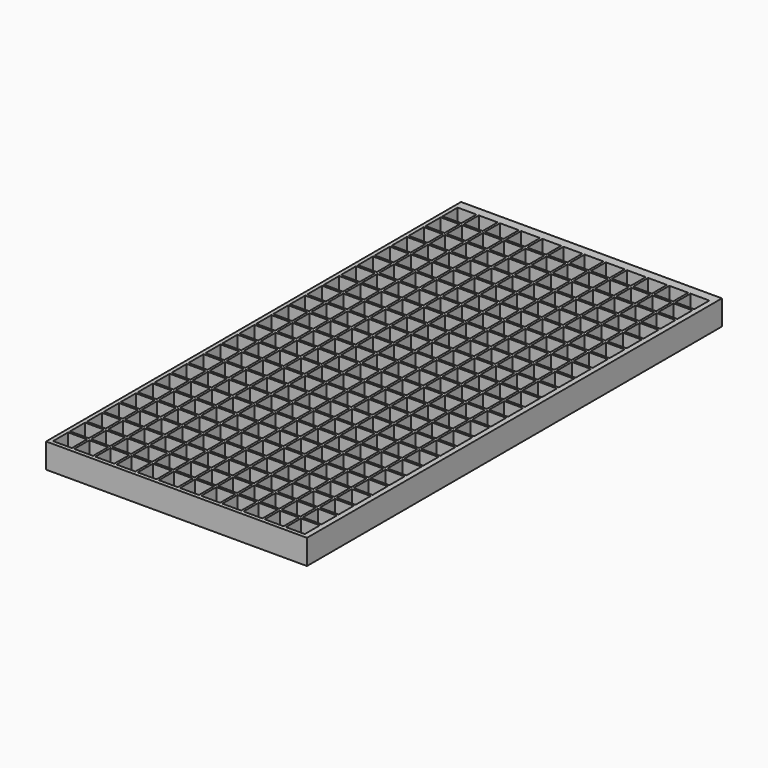
from build123d import *

# Parameters (mm, degrees)
F0_W     = 266.7
F0_H     = 530.225
F0_W_2   = 19.2532
F0_H_2   = 19.2532
F1_DEPTH = 25.4


with BuildPart() as f1:
    # F0 (on Top) → F1 (new body)
    with BuildSketch(Plane.XY):
        with Locations((12.958108, 22.497975)):
            Rectangle(F0_W, F0_H)
        with Locations((-106.802892, -229.025525)):
            Rectangle(F0_W_2, F0_H_2, mode=Mode.SUBTRACT)
        with Locations((-106.802892, -207.384725)):
            Rectangle(F0_W_2, F0_H_2, mode=Mode.SUBTRACT)
        with Locations((-106.802892, -185.743925)):
            Rectangle(F0_W_2, F0_H_2, mode=Mode.SUBTRACT)
        with Locations((-85.162092, -229.025525)):
            Rectangle(F0_W_2, F0_H_2, mode=Mode.SUBTRACT)
        with Locations((-63.521292, -229.025525)):
            Rectangle(F0_W_2, F0_H_2, mode=Mode.SUBTRACT)
        with Locations((-85.162092, -207.384725)):
            Rectangle(F0_W_2, F0_H_2, mode=Mode.SUBTRACT)
        with Locations((-85.162092, -185.743925)):
            Rectangle(F0_W_2, F0_H_2, mode=Mode.SUBTRACT)
        with Locations((-63.521292, -207.384725)):
            Rectangle(F0_W_2, F0_H_2, mode=Mode.SUBTRACT)
        with Locations((-63.521292, -185.743925)):
            Rectangle(F0_W_2, F0_H_2, mode=Mode.SUBTRACT)
        with Locations((-106.802892, -164.103125)):
            Rectangle(F0_W_2, F0_H_2, mode=Mode.SUBTRACT)
        with Locations((-106.802892, -142.462325)):
            Rectangle(F0_W_2, F0_H_2, mode=Mode.SUBTRACT)
        with Locations((-106.802892, -120.821525)):
            Rectangle(F0_W_2, F0_H_2, mode=Mode.SUBTRACT)
        with Locations((-85.162092, -164.103125)):
            Rectangle(F0_W_2, F0_H_2, mode=Mode.SUBTRACT)
        with Locations((-63.521292, -164.103125)):
            Rectangle(F0_W_2, F0_H_2, mode=Mode.SUBTRACT)
        with Locations((-85.162092, -142.462325)):
            Rectangle(F0_W_2, F0_H_2, mode=Mode.SUBTRACT)
        with Locations((-85.162092, -120.821525)):
            Rectangle(F0_W_2, F0_H_2, mode=Mode.SUBTRACT)
        with Locations((-63.521292, -142.462325)):
            Rectangle(F0_W_2, F0_H_2, mode=Mode.SUBTRACT)
        with Locations((-63.521292, -120.821525)):
            Rectangle(F0_W_2, F0_H_2, mode=Mode.SUBTRACT)
        with Locations((-41.880492, -229.025525)):
            Rectangle(F0_W_2, F0_H_2, mode=Mode.SUBTRACT)
        with Locations((-41.880492, -207.384725)):
            Rectangle(F0_W_2, F0_H_2, mode=Mode.SUBTRACT)
        with Locations((-41.880492, -185.743925)):
            Rectangle(F0_W_2, F0_H_2, mode=Mode.SUBTRACT)
        with Locations((-20.239692, -229.025525)):
            Rectangle(F0_W_2, F0_H_2, mode=Mode.SUBTRACT)
        with Locations((1.401108, -229.025525)):
            Rectangle(F0_W_2, F0_H_2, mode=Mode.SUBTRACT)
        with Locations((-20.239692, -207.384725)):
            Rectangle(F0_W_2, F0_H_2, mode=Mode.SUBTRACT)
        with Locations((-20.239692, -185.743925)):
            Rectangle(F0_W_2, F0_H_2, mode=Mode.SUBTRACT)
        with Locations((1.401108, -207.384725)):
            Rectangle(F0_W_2, F0_H_2, mode=Mode.SUBTRACT)
        with Locations((1.401108, -185.743925)):
            Rectangle(F0_W_2, F0_H_2, mode=Mode.SUBTRACT)
        with Locations((-41.880492, -164.103125)):
            Rectangle(F0_W_2, F0_H_2, mode=Mode.SUBTRACT)
        with Locations((-41.880492, -142.462325)):
            Rectangle(F0_W_2, F0_H_2, mode=Mode.SUBTRACT)
        with Locations((-41.880492, -120.821525)):
            Rectangle(F0_W_2, F0_H_2, mode=Mode.SUBTRACT)
        with Locations((-20.239692, -164.103125)):
            Rectangle(F0_W_2, F0_H_2, mode=Mode.SUBTRACT)
        with Locations((1.401108, -164.103125)):
            Rectangle(F0_W_2, F0_H_2, mode=Mode.SUBTRACT)
        with Locations((-20.239692, -142.462325)):
            Rectangle(F0_W_2, F0_H_2, mode=Mode.SUBTRACT)
        with Locations((-20.239692, -120.821525)):
            Rectangle(F0_W_2, F0_H_2, mode=Mode.SUBTRACT)
        with Locations((1.401108, -142.462325)):
            Rectangle(F0_W_2, F0_H_2, mode=Mode.SUBTRACT)
        with Locations((1.401108, -120.821525)):
            Rectangle(F0_W_2, F0_H_2, mode=Mode.SUBTRACT)
        with Locations((-106.802892, -99.180725)):
            Rectangle(F0_W_2, F0_H_2, mode=Mode.SUBTRACT)
        with Locations((-106.802892, -77.539925)):
            Rectangle(F0_W_2, F0_H_2, mode=Mode.SUBTRACT)
        with Locations((-106.802892, -55.899125)):
            Rectangle(F0_W_2, F0_H_2, mode=Mode.SUBTRACT)
        with Locations((-85.162092, -99.180725)):
            Rectangle(F0_W_2, F0_H_2, mode=Mode.SUBTRACT)
        with Locations((-85.162092, -77.539925)):
            Rectangle(F0_W_2, F0_H_2, mode=Mode.SUBTRACT)
        with Locations((-63.521292, -99.180725)):
            Rectangle(F0_W_2, F0_H_2, mode=Mode.SUBTRACT)
        with Locations((-63.521292, -77.539925)):
            Rectangle(F0_W_2, F0_H_2, mode=Mode.SUBTRACT)
        with Locations((-85.162092, -55.899125)):
            Rectangle(F0_W_2, F0_H_2, mode=Mode.SUBTRACT)
        with Locations((-63.521292, -55.899125)):
            Rectangle(F0_W_2, F0_H_2, mode=Mode.SUBTRACT)
        with Locations((-106.802892, -34.258325)):
            Rectangle(F0_W_2, F0_H_2, mode=Mode.SUBTRACT)
        with Locations((-106.802892, -12.617525)):
            Rectangle(F0_W_2, F0_H_2, mode=Mode.SUBTRACT)
        with Locations((-106.802892, 9.023275)):
            Rectangle(F0_W_2, F0_H_2, mode=Mode.SUBTRACT)
        with Locations((-85.162092, -34.258325)):
            Rectangle(F0_W_2, F0_H_2, mode=Mode.SUBTRACT)
        with Locations((-85.162092, -12.617525)):
            Rectangle(F0_W_2, F0_H_2, mode=Mode.SUBTRACT)
        with Locations((-63.521292, -34.258325)):
            Rectangle(F0_W_2, F0_H_2, mode=Mode.SUBTRACT)
        with Locations((-63.521292, -12.617525)):
            Rectangle(F0_W_2, F0_H_2, mode=Mode.SUBTRACT)
        with Locations((-85.162092, 9.023275)):
            Rectangle(F0_W_2, F0_H_2, mode=Mode.SUBTRACT)
        with Locations((-63.521292, 9.023275)):
            Rectangle(F0_W_2, F0_H_2, mode=Mode.SUBTRACT)
        with Locations((-41.880492, -99.180725)):
            Rectangle(F0_W_2, F0_H_2, mode=Mode.SUBTRACT)
        with Locations((-41.880492, -77.539925)):
            Rectangle(F0_W_2, F0_H_2, mode=Mode.SUBTRACT)
        with Locations((-41.880492, -55.899125)):
            Rectangle(F0_W_2, F0_H_2, mode=Mode.SUBTRACT)
        with Locations((-20.239692, -99.180725)):
            Rectangle(F0_W_2, F0_H_2, mode=Mode.SUBTRACT)
        with Locations((-20.239692, -77.539925)):
            Rectangle(F0_W_2, F0_H_2, mode=Mode.SUBTRACT)
        with Locations((1.401108, -99.180725)):
            Rectangle(F0_W_2, F0_H_2, mode=Mode.SUBTRACT)
        with Locations((1.401108, -77.539925)):
            Rectangle(F0_W_2, F0_H_2, mode=Mode.SUBTRACT)
        with Locations((-20.239692, -55.899125)):
            Rectangle(F0_W_2, F0_H_2, mode=Mode.SUBTRACT)
        with Locations((1.401108, -55.899125)):
            Rectangle(F0_W_2, F0_H_2, mode=Mode.SUBTRACT)
        with Locations((-41.880492, -34.258325)):
            Rectangle(F0_W_2, F0_H_2, mode=Mode.SUBTRACT)
        with Locations((-41.880492, -12.617525)):
            Rectangle(F0_W_2, F0_H_2, mode=Mode.SUBTRACT)
        with Locations((-41.880492, 9.023275)):
            Rectangle(F0_W_2, F0_H_2, mode=Mode.SUBTRACT)
        with Locations((-20.239692, -34.258325)):
            Rectangle(F0_W_2, F0_H_2, mode=Mode.SUBTRACT)
        with Locations((-20.239692, -12.617525)):
            Rectangle(F0_W_2, F0_H_2, mode=Mode.SUBTRACT)
        with Locations((1.401108, -34.258325)):
            Rectangle(F0_W_2, F0_H_2, mode=Mode.SUBTRACT)
        with Locations((1.401108, -12.617525)):
            Rectangle(F0_W_2, F0_H_2, mode=Mode.SUBTRACT)
        with Locations((-20.239692, 9.023275)):
            Rectangle(F0_W_2, F0_H_2, mode=Mode.SUBTRACT)
        with Locations((1.401108, 9.023275)):
            Rectangle(F0_W_2, F0_H_2, mode=Mode.SUBTRACT)
        with Locations((23.041908, -229.025525)):
            Rectangle(F0_W_2, F0_H_2, mode=Mode.SUBTRACT)
        with Locations((44.682708, -229.025525)):
            Rectangle(F0_W_2, F0_H_2, mode=Mode.SUBTRACT)
        with Locations((23.041908, -207.384725)):
            Rectangle(F0_W_2, F0_H_2, mode=Mode.SUBTRACT)
        with Locations((23.041908, -185.743925)):
            Rectangle(F0_W_2, F0_H_2, mode=Mode.SUBTRACT)
        with Locations((44.682708, -207.384725)):
            Rectangle(F0_W_2, F0_H_2, mode=Mode.SUBTRACT)
        with Locations((44.682708, -185.743925)):
            Rectangle(F0_W_2, F0_H_2, mode=Mode.SUBTRACT)
        with Locations((66.323508, -229.025525)):
            Rectangle(F0_W_2, F0_H_2, mode=Mode.SUBTRACT)
        with Locations((66.323508, -207.384725)):
            Rectangle(F0_W_2, F0_H_2, mode=Mode.SUBTRACT)
        with Locations((66.323508, -185.743925)):
            Rectangle(F0_W_2, F0_H_2, mode=Mode.SUBTRACT)
        with Locations((23.041908, -164.103125)):
            Rectangle(F0_W_2, F0_H_2, mode=Mode.SUBTRACT)
        with Locations((44.682708, -164.103125)):
            Rectangle(F0_W_2, F0_H_2, mode=Mode.SUBTRACT)
        with Locations((23.041908, -142.462325)):
            Rectangle(F0_W_2, F0_H_2, mode=Mode.SUBTRACT)
        with Locations((23.041908, -120.821525)):
            Rectangle(F0_W_2, F0_H_2, mode=Mode.SUBTRACT)
        with Locations((44.682708, -142.462325)):
            Rectangle(F0_W_2, F0_H_2, mode=Mode.SUBTRACT)
        with Locations((44.682708, -120.821525)):
            Rectangle(F0_W_2, F0_H_2, mode=Mode.SUBTRACT)
        with Locations((66.323508, -164.103125)):
            Rectangle(F0_W_2, F0_H_2, mode=Mode.SUBTRACT)
        with Locations((66.323508, -142.462325)):
            Rectangle(F0_W_2, F0_H_2, mode=Mode.SUBTRACT)
        with Locations((66.323508, -120.821525)):
            Rectangle(F0_W_2, F0_H_2, mode=Mode.SUBTRACT)
        with Locations((87.964308, -229.025525)):
            Rectangle(F0_W_2, F0_H_2, mode=Mode.SUBTRACT)
        with Locations((109.605108, -229.025525)):
            Rectangle(F0_W_2, F0_H_2, mode=Mode.SUBTRACT)
        with Locations((87.964308, -207.384725)):
            Rectangle(F0_W_2, F0_H_2, mode=Mode.SUBTRACT)
        with Locations((87.964308, -185.743925)):
            Rectangle(F0_W_2, F0_H_2, mode=Mode.SUBTRACT)
        with Locations((109.605108, -207.384725)):
            Rectangle(F0_W_2, F0_H_2, mode=Mode.SUBTRACT)
        with Locations((109.605108, -185.743925)):
            Rectangle(F0_W_2, F0_H_2, mode=Mode.SUBTRACT)
        with Locations((131.245908, -229.025525)):
            Rectangle(F0_W_2, F0_H_2, mode=Mode.SUBTRACT)
        with Locations((131.245908, -207.384725)):
            Rectangle(F0_W_2, F0_H_2, mode=Mode.SUBTRACT)
        with Locations((131.245908, -185.743925)):
            Rectangle(F0_W_2, F0_H_2, mode=Mode.SUBTRACT)
        with Locations((87.964308, -164.103125)):
            Rectangle(F0_W_2, F0_H_2, mode=Mode.SUBTRACT)
        with Locations((109.605108, -164.103125)):
            Rectangle(F0_W_2, F0_H_2, mode=Mode.SUBTRACT)
        with Locations((87.964308, -142.462325)):
            Rectangle(F0_W_2, F0_H_2, mode=Mode.SUBTRACT)
        with Locations((87.964308, -120.821525)):
            Rectangle(F0_W_2, F0_H_2, mode=Mode.SUBTRACT)
        with Locations((109.605108, -142.462325)):
            Rectangle(F0_W_2, F0_H_2, mode=Mode.SUBTRACT)
        with Locations((109.605108, -120.821525)):
            Rectangle(F0_W_2, F0_H_2, mode=Mode.SUBTRACT)
        with Locations((131.245908, -164.103125)):
            Rectangle(F0_W_2, F0_H_2, mode=Mode.SUBTRACT)
        with Locations((131.245908, -142.462325)):
            Rectangle(F0_W_2, F0_H_2, mode=Mode.SUBTRACT)
        with Locations((131.245908, -120.821525)):
            Rectangle(F0_W_2, F0_H_2, mode=Mode.SUBTRACT)
        with Locations((23.041908, -99.180725)):
            Rectangle(F0_W_2, F0_H_2, mode=Mode.SUBTRACT)
        with Locations((23.041908, -77.539925)):
            Rectangle(F0_W_2, F0_H_2, mode=Mode.SUBTRACT)
        with Locations((44.682708, -99.180725)):
            Rectangle(F0_W_2, F0_H_2, mode=Mode.SUBTRACT)
        with Locations((44.682708, -77.539925)):
            Rectangle(F0_W_2, F0_H_2, mode=Mode.SUBTRACT)
        with Locations((23.041908, -55.899125)):
            Rectangle(F0_W_2, F0_H_2, mode=Mode.SUBTRACT)
        with Locations((44.682708, -55.899125)):
            Rectangle(F0_W_2, F0_H_2, mode=Mode.SUBTRACT)
        with Locations((66.323508, -99.180725)):
            Rectangle(F0_W_2, F0_H_2, mode=Mode.SUBTRACT)
        with Locations((66.323508, -77.539925)):
            Rectangle(F0_W_2, F0_H_2, mode=Mode.SUBTRACT)
        with Locations((66.323508, -55.899125)):
            Rectangle(F0_W_2, F0_H_2, mode=Mode.SUBTRACT)
        with Locations((23.041908, -34.258325)):
            Rectangle(F0_W_2, F0_H_2, mode=Mode.SUBTRACT)
        with Locations((23.041908, -12.617525)):
            Rectangle(F0_W_2, F0_H_2, mode=Mode.SUBTRACT)
        with Locations((44.682708, -34.258325)):
            Rectangle(F0_W_2, F0_H_2, mode=Mode.SUBTRACT)
        with Locations((44.682708, -12.617525)):
            Rectangle(F0_W_2, F0_H_2, mode=Mode.SUBTRACT)
        with Locations((23.041908, 9.023275)):
            Rectangle(F0_W_2, F0_H_2, mode=Mode.SUBTRACT)
        with Locations((44.682708, 9.023275)):
            Rectangle(F0_W_2, F0_H_2, mode=Mode.SUBTRACT)
        with Locations((66.323508, -34.258325)):
            Rectangle(F0_W_2, F0_H_2, mode=Mode.SUBTRACT)
        with Locations((66.323508, -12.617525)):
            Rectangle(F0_W_2, F0_H_2, mode=Mode.SUBTRACT)
        with Locations((66.323508, 9.023275)):
            Rectangle(F0_W_2, F0_H_2, mode=Mode.SUBTRACT)
        with Locations((87.964308, -99.180725)):
            Rectangle(F0_W_2, F0_H_2, mode=Mode.SUBTRACT)
        with Locations((87.964308, -77.539925)):
            Rectangle(F0_W_2, F0_H_2, mode=Mode.SUBTRACT)
        with Locations((109.605108, -99.180725)):
            Rectangle(F0_W_2, F0_H_2, mode=Mode.SUBTRACT)
        with Locations((109.605108, -77.539925)):
            Rectangle(F0_W_2, F0_H_2, mode=Mode.SUBTRACT)
        with Locations((87.964308, -55.899125)):
            Rectangle(F0_W_2, F0_H_2, mode=Mode.SUBTRACT)
        with Locations((109.605108, -55.899125)):
            Rectangle(F0_W_2, F0_H_2, mode=Mode.SUBTRACT)
        with Locations((131.245908, -99.180725)):
            Rectangle(F0_W_2, F0_H_2, mode=Mode.SUBTRACT)
        with Locations((131.245908, -77.539925)):
            Rectangle(F0_W_2, F0_H_2, mode=Mode.SUBTRACT)
        with Locations((131.245908, -55.899125)):
            Rectangle(F0_W_2, F0_H_2, mode=Mode.SUBTRACT)
        with Locations((87.964308, -34.258325)):
            Rectangle(F0_W_2, F0_H_2, mode=Mode.SUBTRACT)
        with Locations((87.964308, -12.617525)):
            Rectangle(F0_W_2, F0_H_2, mode=Mode.SUBTRACT)
        with Locations((109.605108, -34.258325)):
            Rectangle(F0_W_2, F0_H_2, mode=Mode.SUBTRACT)
        with Locations((109.605108, -12.617525)):
            Rectangle(F0_W_2, F0_H_2, mode=Mode.SUBTRACT)
        with Locations((87.964308, 9.023275)):
            Rectangle(F0_W_2, F0_H_2, mode=Mode.SUBTRACT)
        with Locations((109.605108, 9.023275)):
            Rectangle(F0_W_2, F0_H_2, mode=Mode.SUBTRACT)
        with Locations((131.245908, -34.258325)):
            Rectangle(F0_W_2, F0_H_2, mode=Mode.SUBTRACT)
        with Locations((131.245908, -12.617525)):
            Rectangle(F0_W_2, F0_H_2, mode=Mode.SUBTRACT)
        with Locations((131.245908, 9.023275)):
            Rectangle(F0_W_2, F0_H_2, mode=Mode.SUBTRACT)
        with Locations((-106.802892, 30.664075)):
            Rectangle(F0_W_2, F0_H_2, mode=Mode.SUBTRACT)
        with Locations((-106.802892, 52.304875)):
            Rectangle(F0_W_2, F0_H_2, mode=Mode.SUBTRACT)
        with Locations((-106.802892, 73.945675)):
            Rectangle(F0_W_2, F0_H_2, mode=Mode.SUBTRACT)
        with Locations((-85.162092, 30.664075)):
            Rectangle(F0_W_2, F0_H_2, mode=Mode.SUBTRACT)
        with Locations((-85.162092, 52.304875)):
            Rectangle(F0_W_2, F0_H_2, mode=Mode.SUBTRACT)
        with Locations((-63.521292, 30.664075)):
            Rectangle(F0_W_2, F0_H_2, mode=Mode.SUBTRACT)
        with Locations((-63.521292, 52.304875)):
            Rectangle(F0_W_2, F0_H_2, mode=Mode.SUBTRACT)
        with Locations((-85.162092, 73.945675)):
            Rectangle(F0_W_2, F0_H_2, mode=Mode.SUBTRACT)
        with Locations((-63.521292, 73.945675)):
            Rectangle(F0_W_2, F0_H_2, mode=Mode.SUBTRACT)
        with Locations((-106.802892, 95.586475)):
            Rectangle(F0_W_2, F0_H_2, mode=Mode.SUBTRACT)
        with Locations((-106.802892, 117.227275)):
            Rectangle(F0_W_2, F0_H_2, mode=Mode.SUBTRACT)
        with Locations((-106.802892, 138.868075)):
            Rectangle(F0_W_2, F0_H_2, mode=Mode.SUBTRACT)
        with Locations((-85.162092, 95.586475)):
            Rectangle(F0_W_2, F0_H_2, mode=Mode.SUBTRACT)
        with Locations((-85.162092, 117.227275)):
            Rectangle(F0_W_2, F0_H_2, mode=Mode.SUBTRACT)
        with Locations((-63.521292, 95.586475)):
            Rectangle(F0_W_2, F0_H_2, mode=Mode.SUBTRACT)
        with Locations((-63.521292, 117.227275)):
            Rectangle(F0_W_2, F0_H_2, mode=Mode.SUBTRACT)
        with Locations((-85.162092, 138.868075)):
            Rectangle(F0_W_2, F0_H_2, mode=Mode.SUBTRACT)
        with Locations((-63.521292, 138.868075)):
            Rectangle(F0_W_2, F0_H_2, mode=Mode.SUBTRACT)
        with Locations((-41.880492, 30.664075)):
            Rectangle(F0_W_2, F0_H_2, mode=Mode.SUBTRACT)
        with Locations((-41.880492, 52.304875)):
            Rectangle(F0_W_2, F0_H_2, mode=Mode.SUBTRACT)
        with Locations((-41.880492, 73.945675)):
            Rectangle(F0_W_2, F0_H_2, mode=Mode.SUBTRACT)
        with Locations((-20.239692, 30.664075)):
            Rectangle(F0_W_2, F0_H_2, mode=Mode.SUBTRACT)
        with Locations((-20.239692, 52.304875)):
            Rectangle(F0_W_2, F0_H_2, mode=Mode.SUBTRACT)
        with Locations((1.401108, 30.664075)):
            Rectangle(F0_W_2, F0_H_2, mode=Mode.SUBTRACT)
        with Locations((1.401108, 52.304875)):
            Rectangle(F0_W_2, F0_H_2, mode=Mode.SUBTRACT)
        with Locations((-20.239692, 73.945675)):
            Rectangle(F0_W_2, F0_H_2, mode=Mode.SUBTRACT)
        with Locations((1.401108, 73.945675)):
            Rectangle(F0_W_2, F0_H_2, mode=Mode.SUBTRACT)
        with Locations((-41.880492, 95.586475)):
            Rectangle(F0_W_2, F0_H_2, mode=Mode.SUBTRACT)
        with Locations((-41.880492, 117.227275)):
            Rectangle(F0_W_2, F0_H_2, mode=Mode.SUBTRACT)
        with Locations((-41.880492, 138.868075)):
            Rectangle(F0_W_2, F0_H_2, mode=Mode.SUBTRACT)
        with Locations((-20.239692, 95.586475)):
            Rectangle(F0_W_2, F0_H_2, mode=Mode.SUBTRACT)
        with Locations((-20.239692, 117.227275)):
            Rectangle(F0_W_2, F0_H_2, mode=Mode.SUBTRACT)
        with Locations((1.401108, 95.586475)):
            Rectangle(F0_W_2, F0_H_2, mode=Mode.SUBTRACT)
        with Locations((1.401108, 117.227275)):
            Rectangle(F0_W_2, F0_H_2, mode=Mode.SUBTRACT)
        with Locations((-20.239692, 138.868075)):
            Rectangle(F0_W_2, F0_H_2, mode=Mode.SUBTRACT)
        with Locations((1.401108, 138.868075)):
            Rectangle(F0_W_2, F0_H_2, mode=Mode.SUBTRACT)
        with Locations((-106.802892, 160.508875)):
            Rectangle(F0_W_2, F0_H_2, mode=Mode.SUBTRACT)
        with Locations((-106.802892, 182.149675)):
            Rectangle(F0_W_2, F0_H_2, mode=Mode.SUBTRACT)
        with Locations((-106.802892, 203.790475)):
            Rectangle(F0_W_2, F0_H_2, mode=Mode.SUBTRACT)
        with Locations((-85.162092, 160.508875)):
            Rectangle(F0_W_2, F0_H_2, mode=Mode.SUBTRACT)
        with Locations((-85.162092, 182.149675)):
            Rectangle(F0_W_2, F0_H_2, mode=Mode.SUBTRACT)
        with Locations((-63.521292, 160.508875)):
            Rectangle(F0_W_2, F0_H_2, mode=Mode.SUBTRACT)
        with Locations((-63.521292, 182.149675)):
            Rectangle(F0_W_2, F0_H_2, mode=Mode.SUBTRACT)
        with Locations((-85.162092, 203.790475)):
            Rectangle(F0_W_2, F0_H_2, mode=Mode.SUBTRACT)
        with Locations((-63.521292, 203.790475)):
            Rectangle(F0_W_2, F0_H_2, mode=Mode.SUBTRACT)
        with Locations((-106.802892, 225.431275)):
            Rectangle(F0_W_2, F0_H_2, mode=Mode.SUBTRACT)
        with Locations((-106.802892, 247.072075)):
            Rectangle(F0_W_2, F0_H_2, mode=Mode.SUBTRACT)
        with Locations((-106.802892, 268.712875)):
            Rectangle(F0_W_2, F0_H_2, mode=Mode.SUBTRACT)
        with Locations((-85.162092, 225.431275)):
            Rectangle(F0_W_2, F0_H_2, mode=Mode.SUBTRACT)
        with Locations((-85.162092, 247.072075)):
            Rectangle(F0_W_2, F0_H_2, mode=Mode.SUBTRACT)
        with Locations((-63.521292, 225.431275)):
            Rectangle(F0_W_2, F0_H_2, mode=Mode.SUBTRACT)
        with Locations((-63.521292, 247.072075)):
            Rectangle(F0_W_2, F0_H_2, mode=Mode.SUBTRACT)
        with Locations((-85.162092, 268.712875)):
            Rectangle(F0_W_2, F0_H_2, mode=Mode.SUBTRACT)
        with Locations((-63.521292, 268.712875)):
            Rectangle(F0_W_2, F0_H_2, mode=Mode.SUBTRACT)
        with Locations((-41.880492, 160.508875)):
            Rectangle(F0_W_2, F0_H_2, mode=Mode.SUBTRACT)
        with Locations((-41.880492, 182.149675)):
            Rectangle(F0_W_2, F0_H_2, mode=Mode.SUBTRACT)
        with Locations((-41.880492, 203.790475)):
            Rectangle(F0_W_2, F0_H_2, mode=Mode.SUBTRACT)
        with Locations((-20.239692, 160.508875)):
            Rectangle(F0_W_2, F0_H_2, mode=Mode.SUBTRACT)
        with Locations((-20.239692, 182.149675)):
            Rectangle(F0_W_2, F0_H_2, mode=Mode.SUBTRACT)
        with Locations((1.401108, 160.508875)):
            Rectangle(F0_W_2, F0_H_2, mode=Mode.SUBTRACT)
        with Locations((1.401108, 182.149675)):
            Rectangle(F0_W_2, F0_H_2, mode=Mode.SUBTRACT)
        with Locations((-20.239692, 203.790475)):
            Rectangle(F0_W_2, F0_H_2, mode=Mode.SUBTRACT)
        with Locations((1.401108, 203.790475)):
            Rectangle(F0_W_2, F0_H_2, mode=Mode.SUBTRACT)
        with Locations((-41.880492, 225.431275)):
            Rectangle(F0_W_2, F0_H_2, mode=Mode.SUBTRACT)
        with Locations((-41.880492, 247.072075)):
            Rectangle(F0_W_2, F0_H_2, mode=Mode.SUBTRACT)
        with Locations((-41.880492, 268.712875)):
            Rectangle(F0_W_2, F0_H_2, mode=Mode.SUBTRACT)
        with Locations((-20.239692, 225.431275)):
            Rectangle(F0_W_2, F0_H_2, mode=Mode.SUBTRACT)
        with Locations((-20.239692, 247.072075)):
            Rectangle(F0_W_2, F0_H_2, mode=Mode.SUBTRACT)
        with Locations((1.401108, 225.431275)):
            Rectangle(F0_W_2, F0_H_2, mode=Mode.SUBTRACT)
        with Locations((1.401108, 247.072075)):
            Rectangle(F0_W_2, F0_H_2, mode=Mode.SUBTRACT)
        with Locations((-20.239692, 268.712875)):
            Rectangle(F0_W_2, F0_H_2, mode=Mode.SUBTRACT)
        with Locations((1.401108, 268.712875)):
            Rectangle(F0_W_2, F0_H_2, mode=Mode.SUBTRACT)
        with Locations((23.041908, 30.664075)):
            Rectangle(F0_W_2, F0_H_2, mode=Mode.SUBTRACT)
        with Locations((23.041908, 52.304875)):
            Rectangle(F0_W_2, F0_H_2, mode=Mode.SUBTRACT)
        with Locations((44.682708, 30.664075)):
            Rectangle(F0_W_2, F0_H_2, mode=Mode.SUBTRACT)
        with Locations((44.682708, 52.304875)):
            Rectangle(F0_W_2, F0_H_2, mode=Mode.SUBTRACT)
        with Locations((23.041908, 73.945675)):
            Rectangle(F0_W_2, F0_H_2, mode=Mode.SUBTRACT)
        with Locations((44.682708, 73.945675)):
            Rectangle(F0_W_2, F0_H_2, mode=Mode.SUBTRACT)
        with Locations((66.323508, 30.664075)):
            Rectangle(F0_W_2, F0_H_2, mode=Mode.SUBTRACT)
        with Locations((66.323508, 52.304875)):
            Rectangle(F0_W_2, F0_H_2, mode=Mode.SUBTRACT)
        with Locations((66.323508, 73.945675)):
            Rectangle(F0_W_2, F0_H_2, mode=Mode.SUBTRACT)
        with Locations((23.041908, 95.586475)):
            Rectangle(F0_W_2, F0_H_2, mode=Mode.SUBTRACT)
        with Locations((23.041908, 117.227275)):
            Rectangle(F0_W_2, F0_H_2, mode=Mode.SUBTRACT)
        with Locations((44.682708, 95.586475)):
            Rectangle(F0_W_2, F0_H_2, mode=Mode.SUBTRACT)
        with Locations((44.682708, 117.227275)):
            Rectangle(F0_W_2, F0_H_2, mode=Mode.SUBTRACT)
        with Locations((23.041908, 138.868075)):
            Rectangle(F0_W_2, F0_H_2, mode=Mode.SUBTRACT)
        with Locations((44.682708, 138.868075)):
            Rectangle(F0_W_2, F0_H_2, mode=Mode.SUBTRACT)
        with Locations((66.323508, 95.586475)):
            Rectangle(F0_W_2, F0_H_2, mode=Mode.SUBTRACT)
        with Locations((66.323508, 117.227275)):
            Rectangle(F0_W_2, F0_H_2, mode=Mode.SUBTRACT)
        with Locations((66.323508, 138.868075)):
            Rectangle(F0_W_2, F0_H_2, mode=Mode.SUBTRACT)
        with Locations((87.964308, 30.664075)):
            Rectangle(F0_W_2, F0_H_2, mode=Mode.SUBTRACT)
        with Locations((87.964308, 52.304875)):
            Rectangle(F0_W_2, F0_H_2, mode=Mode.SUBTRACT)
        with Locations((109.605108, 30.664075)):
            Rectangle(F0_W_2, F0_H_2, mode=Mode.SUBTRACT)
        with Locations((109.605108, 52.304875)):
            Rectangle(F0_W_2, F0_H_2, mode=Mode.SUBTRACT)
        with Locations((87.964308, 73.945675)):
            Rectangle(F0_W_2, F0_H_2, mode=Mode.SUBTRACT)
        with Locations((109.605108, 73.945675)):
            Rectangle(F0_W_2, F0_H_2, mode=Mode.SUBTRACT)
        with Locations((131.245908, 30.664075)):
            Rectangle(F0_W_2, F0_H_2, mode=Mode.SUBTRACT)
        with Locations((131.245908, 52.304875)):
            Rectangle(F0_W_2, F0_H_2, mode=Mode.SUBTRACT)
        with Locations((131.245908, 73.945675)):
            Rectangle(F0_W_2, F0_H_2, mode=Mode.SUBTRACT)
        with Locations((87.964308, 95.586475)):
            Rectangle(F0_W_2, F0_H_2, mode=Mode.SUBTRACT)
        with Locations((87.964308, 117.227275)):
            Rectangle(F0_W_2, F0_H_2, mode=Mode.SUBTRACT)
        with Locations((109.605108, 95.586475)):
            Rectangle(F0_W_2, F0_H_2, mode=Mode.SUBTRACT)
        with Locations((109.605108, 117.227275)):
            Rectangle(F0_W_2, F0_H_2, mode=Mode.SUBTRACT)
        with Locations((87.964308, 138.868075)):
            Rectangle(F0_W_2, F0_H_2, mode=Mode.SUBTRACT)
        with Locations((109.605108, 138.868075)):
            Rectangle(F0_W_2, F0_H_2, mode=Mode.SUBTRACT)
        with Locations((131.245908, 95.586475)):
            Rectangle(F0_W_2, F0_H_2, mode=Mode.SUBTRACT)
        with Locations((131.245908, 117.227275)):
            Rectangle(F0_W_2, F0_H_2, mode=Mode.SUBTRACT)
        with Locations((131.245908, 138.868075)):
            Rectangle(F0_W_2, F0_H_2, mode=Mode.SUBTRACT)
        with Locations((23.041908, 160.508875)):
            Rectangle(F0_W_2, F0_H_2, mode=Mode.SUBTRACT)
        with Locations((23.041908, 182.149675)):
            Rectangle(F0_W_2, F0_H_2, mode=Mode.SUBTRACT)
        with Locations((44.682708, 160.508875)):
            Rectangle(F0_W_2, F0_H_2, mode=Mode.SUBTRACT)
        with Locations((44.682708, 182.149675)):
            Rectangle(F0_W_2, F0_H_2, mode=Mode.SUBTRACT)
        with Locations((23.041908, 203.790475)):
            Rectangle(F0_W_2, F0_H_2, mode=Mode.SUBTRACT)
        with Locations((44.682708, 203.790475)):
            Rectangle(F0_W_2, F0_H_2, mode=Mode.SUBTRACT)
        with Locations((66.323508, 160.508875)):
            Rectangle(F0_W_2, F0_H_2, mode=Mode.SUBTRACT)
        with Locations((66.323508, 182.149675)):
            Rectangle(F0_W_2, F0_H_2, mode=Mode.SUBTRACT)
        with Locations((66.323508, 203.790475)):
            Rectangle(F0_W_2, F0_H_2, mode=Mode.SUBTRACT)
        with Locations((23.041908, 225.431275)):
            Rectangle(F0_W_2, F0_H_2, mode=Mode.SUBTRACT)
        with Locations((23.041908, 247.072075)):
            Rectangle(F0_W_2, F0_H_2, mode=Mode.SUBTRACT)
        with Locations((44.682708, 225.431275)):
            Rectangle(F0_W_2, F0_H_2, mode=Mode.SUBTRACT)
        with Locations((44.682708, 247.072075)):
            Rectangle(F0_W_2, F0_H_2, mode=Mode.SUBTRACT)
        with Locations((23.041908, 268.712875)):
            Rectangle(F0_W_2, F0_H_2, mode=Mode.SUBTRACT)
        with Locations((44.682708, 268.712875)):
            Rectangle(F0_W_2, F0_H_2, mode=Mode.SUBTRACT)
        with Locations((66.323508, 225.431275)):
            Rectangle(F0_W_2, F0_H_2, mode=Mode.SUBTRACT)
        with Locations((66.323508, 247.072075)):
            Rectangle(F0_W_2, F0_H_2, mode=Mode.SUBTRACT)
        with Locations((66.323508, 268.712875)):
            Rectangle(F0_W_2, F0_H_2, mode=Mode.SUBTRACT)
        with Locations((87.964308, 160.508875)):
            Rectangle(F0_W_2, F0_H_2, mode=Mode.SUBTRACT)
        with Locations((87.964308, 182.149675)):
            Rectangle(F0_W_2, F0_H_2, mode=Mode.SUBTRACT)
        with Locations((109.605108, 160.508875)):
            Rectangle(F0_W_2, F0_H_2, mode=Mode.SUBTRACT)
        with Locations((109.605108, 182.149675)):
            Rectangle(F0_W_2, F0_H_2, mode=Mode.SUBTRACT)
        with Locations((87.964308, 203.790475)):
            Rectangle(F0_W_2, F0_H_2, mode=Mode.SUBTRACT)
        with Locations((109.605108, 203.790475)):
            Rectangle(F0_W_2, F0_H_2, mode=Mode.SUBTRACT)
        with Locations((131.245908, 160.508875)):
            Rectangle(F0_W_2, F0_H_2, mode=Mode.SUBTRACT)
        with Locations((131.245908, 182.149675)):
            Rectangle(F0_W_2, F0_H_2, mode=Mode.SUBTRACT)
        with Locations((131.245908, 203.790475)):
            Rectangle(F0_W_2, F0_H_2, mode=Mode.SUBTRACT)
        with Locations((87.964308, 225.431275)):
            Rectangle(F0_W_2, F0_H_2, mode=Mode.SUBTRACT)
        with Locations((87.964308, 247.072075)):
            Rectangle(F0_W_2, F0_H_2, mode=Mode.SUBTRACT)
        with Locations((109.605108, 225.431275)):
            Rectangle(F0_W_2, F0_H_2, mode=Mode.SUBTRACT)
        with Locations((109.605108, 247.072075)):
            Rectangle(F0_W_2, F0_H_2, mode=Mode.SUBTRACT)
        with Locations((87.964308, 268.712875)):
            Rectangle(F0_W_2, F0_H_2, mode=Mode.SUBTRACT)
        with Locations((109.605108, 268.712875)):
            Rectangle(F0_W_2, F0_H_2, mode=Mode.SUBTRACT)
        with Locations((131.245908, 225.431275)):
            Rectangle(F0_W_2, F0_H_2, mode=Mode.SUBTRACT)
        with Locations((131.245908, 247.072075)):
            Rectangle(F0_W_2, F0_H_2, mode=Mode.SUBTRACT)
        with Locations((131.245908, 268.712875)):
            Rectangle(F0_W_2, F0_H_2, mode=Mode.SUBTRACT)
    extrude(amount=F1_DEPTH)


solid = f1.part
